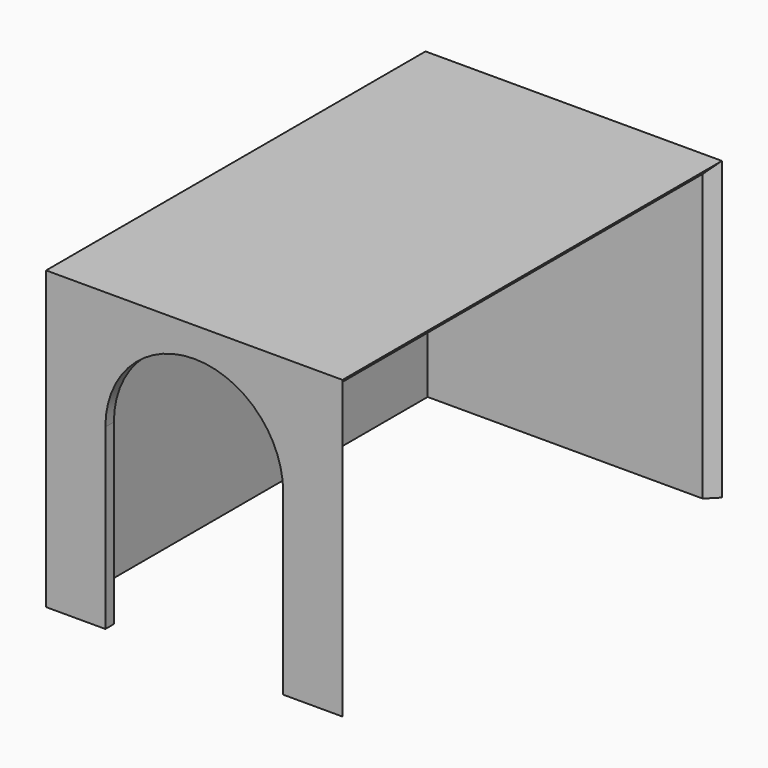
from build123d import *

# Parameters (mm, degrees)
SKETCH_W              = 500
SKETCH_H              = 500
PAD_DEPTH             = 18
POCKET_DEPTH          = 18.001
CHAMFER_SIZE          = 17.9982
SKETCH002_W           = 800
SKETCH002_H           = 500
PAD001_DEPTH          = 18
CHAMFER001_SIZE       = 17.9982
CLONE_PLACEMENT_ANGLE = 180
SKETCH003_W           = 500
SKETCH003_H           = 500
PAD002_DEPTH          = 18
CHAMFER002_SIZE       = 17.9982
SKETCH004_W           = 500
SKETCH004_H           = 800
PAD003_DEPTH          = 18
CHAMFER003_SIZE       = 17.9982


with BuildPart() as front:
    # Sketch → Pad (new body)
    with BuildSketch(Plane.XZ):
        with Locations((0, 250)):
            Rectangle(SKETCH_W, SKETCH_H)
    extrude(amount=PAD_DEPTH)

    # Sketch001 (on Face6 of Pad) → Pocket (cut, through all)
    with BuildSketch(Plane.XZ.offset(18)):
        with BuildLine():
            ThreePointArc((150, 300.000116), (-5.8e-05, 450), (-150, 300))
            Line((-150, 300), (-150, 0))
            Line((-150, 0), (150, 0))
            Line((150, 0), (150, 300.000116))
        make_face()
    extrude(amount=-POCKET_DEPTH, mode=Mode.SUBTRACT)

    # Chamfer
    chamfer_edges = [front.edges().sort_by_distance(p)[0] for p in [
        (0, 0, 500),
        (250, 0, 250),
        (-250, 0, 250),
    ]]
    chamfer(chamfer_edges, length=CHAMFER_SIZE)


with BuildPart() as front_1:
    # Body placement: moved
    add(front.part.moved(Location((0, 18, 0))))


with BuildPart() as left:
    # Sketch002 → Pad001 (new body)
    with BuildSketch(Plane.YZ):
        with Locations((400, 250)):
            Rectangle(SKETCH002_W, SKETCH002_H)
    extrude(amount=PAD001_DEPTH)

    # Chamfer001
    chamfer001_edges = [left.edges().sort_by_distance(p)[0] for p in [
        (0, 800, 250),
        (0, 400, 500),
        (0, 0, 250),
    ]]
    chamfer(chamfer001_edges, length=CHAMFER001_SIZE)


with BuildPart() as left_1:
    # Body001 placement: moved
    add(left.part.moved(Location((232, 0, 0))))


with BuildPart() as left_2:
    # Clone placement: moved
    add(left_1.part.moved(Location((482, 800, 0))).rotate(Axis((482, 800, 0), (0, 0, 1)), CLONE_PLACEMENT_ANGLE))


with BuildPart() as left_3:
    # Body002 placement: moved
    add(left_2.part.moved(Location((-482, 0, 0))))


with BuildPart() as back:
    # Sketch003 → Pad002 (new body)
    with BuildSketch(Plane.XZ):
        with Locations((0, 250)):
            Rectangle(SKETCH003_W, SKETCH003_H)
    extrude(amount=PAD002_DEPTH)

    # Chamfer002
    chamfer002_edges = [back.edges().sort_by_distance(p)[0] for p in [
        (250, -18, 250),
        (0, -18, 500),
        (-250, -18, 250),
    ]]
    chamfer(chamfer002_edges, length=CHAMFER002_SIZE)


with BuildPart() as back_1:
    # Body003 placement: moved
    add(back.part.moved(Location((0, 800, 0))))


with BuildPart() as top:
    # Sketch004 → Pad003 (new body)
    with BuildSketch(Plane.XY):
        with Locations((0, 400)):
            Rectangle(SKETCH004_W, SKETCH004_H)
    extrude(amount=PAD003_DEPTH)

    # Chamfer003
    chamfer003_edges = [top.edges().sort_by_distance(p)[0] for p in [
        (0, 800, 0),
        (250, 400, 0),
        (0, 0, 0),
        (-250, 400, 0),
    ]]
    chamfer(chamfer003_edges, length=CHAMFER003_SIZE)


with BuildPart() as top_1:
    # Body004 placement: moved
    add(top.part.moved(Location((0, 0, 482))))


solid = Compound([front_1.part, left_3.part, back_1.part, top_1.part])
